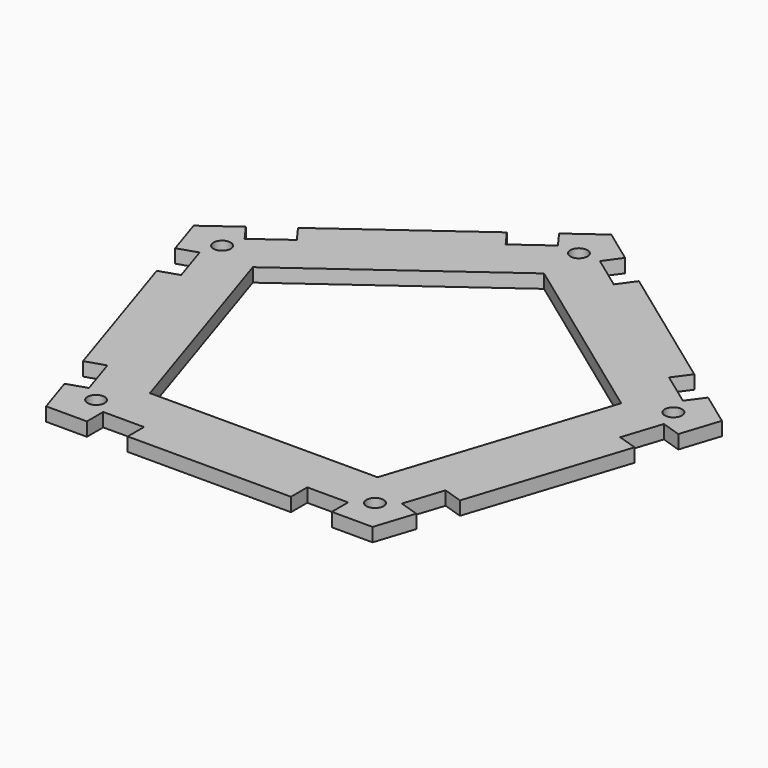
from build123d import *

# Parameters (mm, degrees)
PAD_DEPTH       = 5
SKETCH001_W     = 15
SKETCH001_H     = 7.5
POCKET_DEPTH    = 541.0024137145
SKETCH004_R     = 3.15
POCKET002_DEPTH = 5.001
POCKET003_DEPTH = 5.001


with BuildPart() as part:
    # Sketch → Pad (new body)
    with BuildSketch(Plane.XY):
        Polygon((0, 102.0780970022), (-97.082039325, 31.5438667271), (-60, -82.5829152283), (60, -82.5829152283), (97.082039325, 31.5438667271), align=None)
    extrude(amount=PAD_DEPTH)

    # Sketch001 → Pocket (cut, through all)
    with BuildSketch(Plane.XY.offset(5)):
        Polygon((-84.9467844094, 40.3606455115), (-72.8115294937, 49.1774242959), (-68.4031401016, 43.1097968381), (-80.5383950172, 34.2930180537), align=None)
        Polygon((-12.1352549156, 93.2613182179), (-7.7268655234, 87.19369076), (-19.8621204391, 78.3769119757), (-24.2705111804, 84.4445384533), align=None)
        Polygon((-92.4467844094, 17.2780189827), (-85.3138605372, 19.5956464405), (-80.6786056215, 5.3297986961), (-87.8115294937, 3.0121712383), align=None)
        Polygon((-69.2705098312, -54.0512197394), (-62.137585959, -51.7335922816), (-57.5023310434, -65.999440026), (-64.6352549156, -68.3170674838), align=None)
        with Locations((-37.5, -78.8329152283)):
            Rectangle(SKETCH001_W, SKETCH001_H)
    pocket = extrude(amount=-POCKET_DEPTH, mode=Mode.SUBTRACT)

    # Mirrored: Pocket across Sketch001 V_Axis
    add(pocket.mirror(Plane(origin=(0, 0, 5), x_dir=(0, 0, 1), z_dir=(1, 0, 0))), mode=Mode.SUBTRACT)

    # Sketch004 → Pocket002 (cut, through all)
    with BuildSketch(Plane(origin=(0, 0, 0), x_dir=(1, 0, 0), z_dir=(0, 0, -1))):
        with Locations((-51.2511655217, 70.5411776272)):
            Circle(SKETCH004_R)
        with Locations((-82.9261277772, -26.9443322471)):
            Circle(SKETCH004_R)
        with Locations((0, -87.19369076)):
            Circle(SKETCH004_R)
        with Locations((82.9261277772, -26.9443322471)):
            Circle(SKETCH004_R)
        with Locations((51.2511655217, 70.5411776272)):
            Circle(SKETCH004_R)
    extrude(amount=-POCKET002_DEPTH, mode=Mode.SUBTRACT)

    # Sketch005 → Pocket003 (cut, through all)
    with BuildSketch(Plane(origin=(0, 0, 0), x_dir=(1, 0, 0), z_dir=(0, 0, -1))):
        Polygon((0, -71.1763975648), (67.6927767104, -21.9947164459), (41.8364367999, 57.5829152283), (-41.8364367999, 57.5829152283), (-67.6927767104, -21.9947164459), align=None)
    extrude(amount=-POCKET003_DEPTH, mode=Mode.SUBTRACT)


solid = part.part
